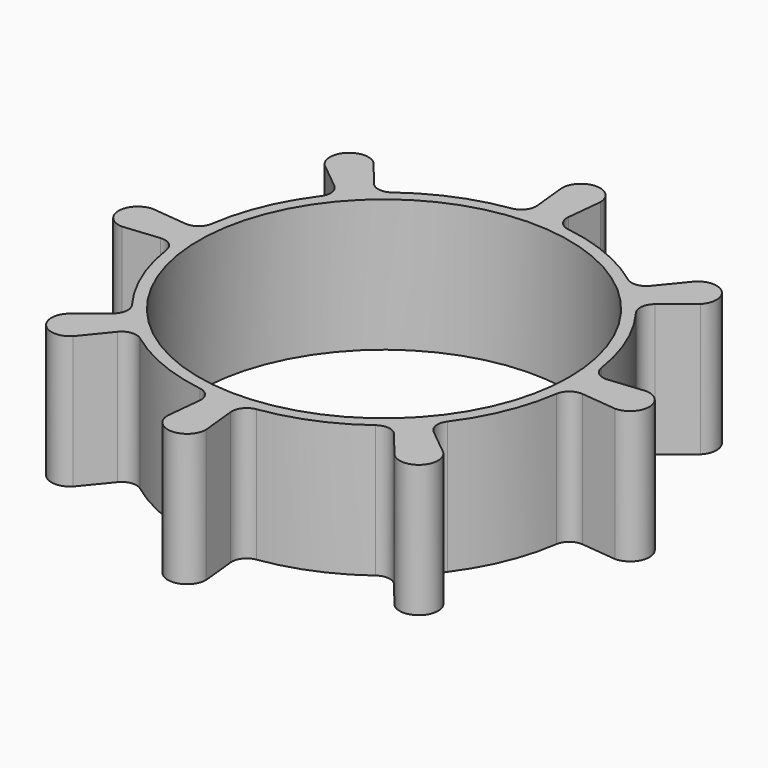
from build123d import *

# Parameters (mm, degrees)
F0_R     = 11.05
F1_DEPTH = 7.9
F2_R     = 0.889


with BuildPart() as f1:
    # F0 (on Top) → F1 (new body)
    with BuildSketch(Plane.XY):
        with BuildLine():
            ThreePointArc((-8.881141, 7.693363), (-8.308505, 8.308505), (-7.693363, 8.881141))
            Line((-7.693363, 8.881141), (-9.594546, 11.215345))
            ThreePointArc((-9.594546, 11.215345), (-11.198751, 11.198751), (-11.215345, 9.594546))
            Line((-11.215345, 9.594546), (-8.881141, 7.693363))
        make_face()
        with BuildLine():
            ThreePointArc((11.719944, -0.839886), (11.742484, -0.420212), (11.75, 0))
            ThreePointArc((11.75, 0), (11.742484, 0.420212), (11.719944, 0.839886))
            ThreePointArc((11.719944, 0.839886), (10.855585, 4.49653), (8.881141, 7.693363))
            ThreePointArc((8.881141, 7.693363), (8.308505, 8.308505), (7.693363, 8.881141))
            ThreePointArc((7.693363, 8.881141), (4.49653, 10.855585), (0.839886, 11.719944))
            ThreePointArc((0.839886, 11.719944), (0, 11.75), (-0.839886, 11.719944))
            ThreePointArc((-0.839886, 11.719944), (-4.49653, 10.855585), (-7.693363, 8.881141))
            ThreePointArc((-7.693363, 8.881141), (-8.308505, 8.308505), (-8.881141, 7.693363))
            ThreePointArc((-8.881141, 7.693363), (-10.855585, 4.49653), (-11.719944, 0.839886))
            ThreePointArc((-11.719944, 0.839886), (-11.75, 0), (-11.719944, -0.839886))
            ThreePointArc((-11.719944, -0.839886), (-10.855585, -4.49653), (-8.881141, -7.693363))
            ThreePointArc((-8.881141, -7.693363), (-8.308505, -8.308505), (-7.693363, -8.881141))
            ThreePointArc((-7.693363, -8.881141), (-4.49653, -10.855585), (-0.839886, -11.719944))
            ThreePointArc((-0.839886, -11.719944), (0, -11.75), (0.839886, -11.719944))
            ThreePointArc((0.839886, -11.719944), (4.49653, -10.855585), (7.693363, -8.881141))
            ThreePointArc((7.693363, -8.881141), (8.308505, -8.308505), (8.881141, -7.693363))
            ThreePointArc((8.881141, -7.693363), (10.855585, -4.49653), (11.719944, -0.839886))
        make_face()
        Circle(F0_R, mode=Mode.SUBTRACT)
        with BuildLine():
            ThreePointArc((-0.839886, 11.719944), (0, 11.75), (0.839886, 11.719944))
            Line((0.839886, 11.719944), (1.146078, 14.714815))
            ThreePointArc((1.146078, 14.714815), (0, 15.837426), (-1.146078, 14.714815))
            Line((-1.146078, 14.714815), (-0.839886, 11.719944))
        make_face()
        with BuildLine():
            ThreePointArc((7.693363, 8.881141), (8.308505, 8.308505), (8.881141, 7.693363))
            Line((8.881141, 7.693363), (11.215345, 9.594546))
            ThreePointArc((11.215345, 9.594546), (11.198751, 11.198751), (9.594546, 11.215345))
            Line((9.594546, 11.215345), (7.693363, 8.881141))
        make_face()
        with BuildLine():
            ThreePointArc((11.719944, 0.839886), (11.742484, 0.420212), (11.75, 0))
            ThreePointArc((11.75, 0), (11.742484, -0.420212), (11.719944, -0.839886))
            Line((11.719944, -0.839886), (14.714815, -1.146078))
            ThreePointArc((14.714815, -1.146078), (15.837426, 0), (14.714815, 1.146078))
            Line((14.714815, 1.146078), (11.719944, 0.839886))
        make_face()
        with BuildLine():
            Line((11.215345, -9.594546), (8.881141, -7.693363))
            ThreePointArc((8.881141, -7.693363), (8.308505, -8.308505), (7.693363, -8.881141))
            Line((7.693363, -8.881141), (9.594546, -11.215345))
            ThreePointArc((9.594546, -11.215345), (11.198751, -11.198751), (11.215345, -9.594546))
        make_face()
        with BuildLine():
            Line((1.146078, -14.714815), (0.839886, -11.719944))
            ThreePointArc((0.839886, -11.719944), (0, -11.75), (-0.839886, -11.719944))
            Line((-0.839886, -11.719944), (-1.146078, -14.714815))
            ThreePointArc((-1.146078, -14.714815), (0, -15.837426), (1.146078, -14.714815))
        make_face()
        with BuildLine():
            Line((-9.594546, -11.215345), (-7.693363, -8.881141))
            ThreePointArc((-7.693363, -8.881141), (-8.308505, -8.308505), (-8.881141, -7.693363))
            Line((-8.881141, -7.693363), (-11.215345, -9.594546))
            ThreePointArc((-11.215345, -9.594546), (-11.198751, -11.198751), (-9.594546, -11.215345))
        make_face()
        with BuildLine():
            ThreePointArc((-11.719944, -0.839886), (-11.75, 0), (-11.719944, 0.839886))
            Line((-11.719944, 0.839886), (-14.714815, 1.146078))
            ThreePointArc((-14.714815, 1.146078), (-15.837426, 0), (-14.714815, -1.146078))
            Line((-14.714815, -1.146078), (-11.719944, -0.839886))
        make_face()
    extrude(amount=F1_DEPTH)

    # F2
    f2_edges = [f1.edges().sort_by_distance(p)[0] for p in [
        (-8.881141, -7.693363, 3.95),
        (-11.719944, -0.839886, 3.95),
        (-7.693363, -8.881141, 3.95),
        (-0.839886, -11.719944, 3.95),
        (7.693363, -8.881141, 3.95),
        (0.839886, -11.719944, 3.95),
        (8.881141, -7.693363, 3.95),
        (11.719944, -0.839886, 3.95),
        (11.719944, 0.839886, 3.95),
        (8.881141, 7.693363, 3.95),
        (0.839886, 11.719944, 3.95),
        (7.693363, 8.881141, 3.95),
        (-0.839886, 11.719944, 3.95),
        (-7.693363, 8.881141, 3.95),
        (-8.881141, 7.693363, 3.95),
        (-11.719944, 0.839886, 3.95),
    ]]
    fillet(f2_edges, radius=F2_R)


solid = f1.part
